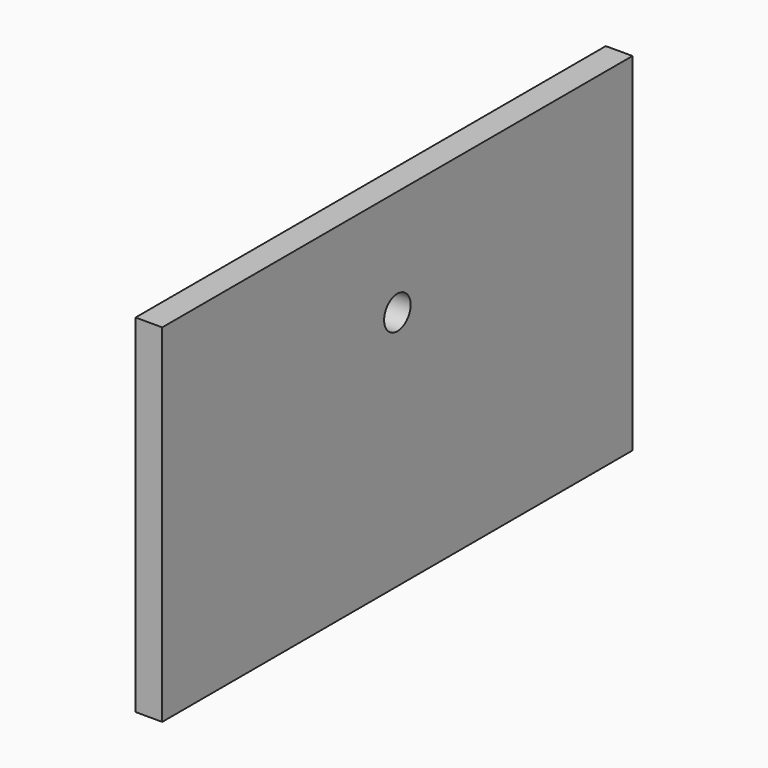
from build123d import *

# Parameters (mm, degrees)
F0_W     = 110
F0_H     = 65
F1_DEPTH = 5
F2_R     = 3.1
F3_DEPTH = 25


with BuildPart() as f1:
    # F0 (on Right) → F1 (new body)
    with BuildSketch(Plane.YZ):
        Rectangle(F0_W, F0_H)
    extrude(amount=F1_DEPTH)

    # F2 (on face) → F3 (cut)
    with BuildSketch(Plane.YZ.offset(5)):
        with Locations((0, 12.6)):
            Circle(F2_R)
    extrude(amount=-F3_DEPTH, mode=Mode.SUBTRACT)


solid = f1.part
